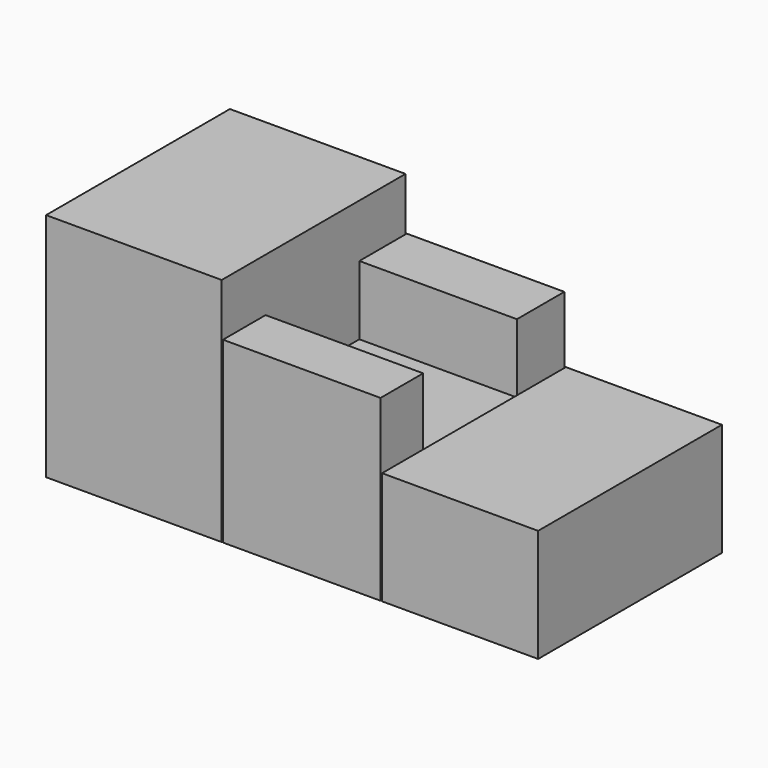
from build123d import *

# Parameters (mm, degrees)
F0_W     = 19.414781
F0_H     = 25.510123
F3_DEPTH = 25.4
F1_W     = 17.419759
F1_H     = 19.743383
F4_DEPTH = 25.4
F2_W     = 17.250634
F2_H     = 12.471057
F5_DEPTH = 25.4
F6_W     = 17.419759
F6_H     = 12.955732
F7_DEPTH = 7.62


with BuildPart() as f3:
    # F0 (on Front) → F3 (new body)
    with BuildSketch(Plane.XZ):
        with Locations((-37.249286, 12.755062)):
            Rectangle(F0_W, F0_H)
    extrude(amount=F3_DEPTH)


with BuildPart() as f4:
    # F1 (on Front) → F4 (new body)
    with BuildSketch(Plane.XZ):
        with Locations((-18.691374, 9.871691)):
            Rectangle(F1_W, F1_H)
    extrude(amount=F4_DEPTH)

    # F6 (on face) → F7 (cut)
    with BuildSketch(Plane.XY.offset(19.743383)):
        with Locations((-18.691374, -13.032658)):
            Rectangle(F6_W, F6_H)
    extrude(amount=-F7_DEPTH, mode=Mode.SUBTRACT)


with BuildPart() as f5:
    # F2 (on Front) → F5 (new body)
    with BuildSketch(Plane.XZ):
        with Locations((-1.187055, 6.235529)):
            Rectangle(F2_W, F2_H)
    extrude(amount=F5_DEPTH)


solid = Compound([f3.part, f4.part, f5.part])
